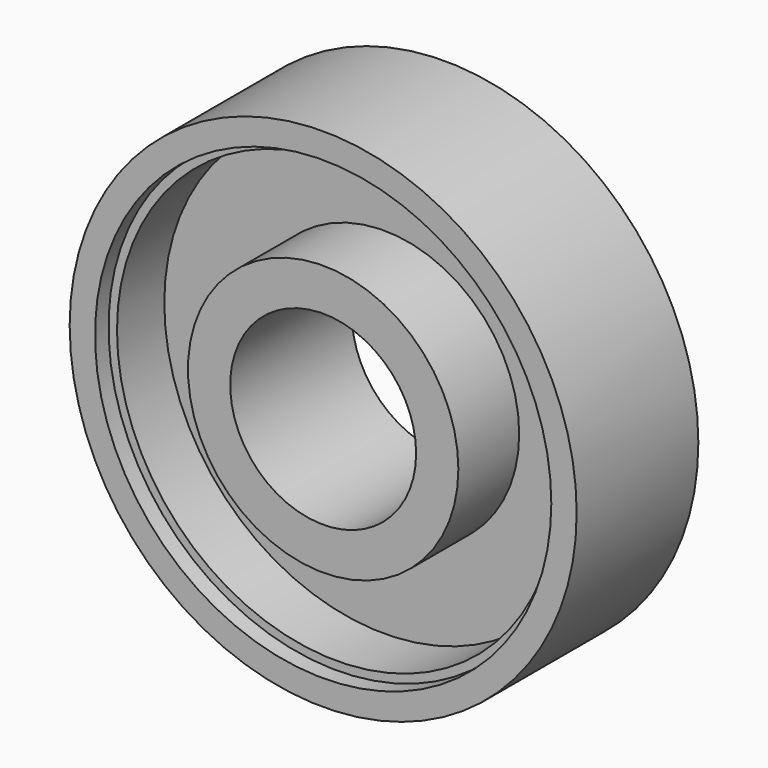
from build123d import *

# Parameters (mm, degrees)
F0_R     = 8
F0_R_2   = 5.5
F1_DEPTH = 9
F0_R_3   = 15
F0_R_4   = 13.5
F2_DEPTH = 9
F0_R_5   = 13
F3_DEPTH = 8
F4_DEPTH = 4.5


with BuildPart() as f1:
    # F0 (on Front) → F1 (new body)
    with BuildSketch(Plane.XZ):
        with Locations((-33.974461, -3.543496)):
            Circle(F0_R)
        with Locations((-33.974461, -3.543496)):
            Circle(F0_R_2, mode=Mode.SUBTRACT)
    extrude(amount=F1_DEPTH)


with BuildPart() as f2:
    # F0 (on Front) → F2 (new body)
    with BuildSketch(Plane.XZ):
        with Locations((-33.974461, -3.543496)):
            Circle(F0_R_3)
        with Locations((-33.974461, -3.543496)):
            Circle(F0_R_4, mode=Mode.SUBTRACT)
    extrude(amount=F2_DEPTH)


with BuildPart() as f3:
    # F0 (on Front) → F3 (new body)
    with BuildSketch(Plane.XZ):
        with Locations((-33.974461, -3.543496)):
            Circle(F0_R_4)
        with Locations((-33.974461, -3.543496)):
            Circle(F0_R_5, mode=Mode.SUBTRACT)
    extrude(amount=F3_DEPTH)


with BuildPart() as f4:
    # F0 (on Front) → F4 (new body)
    with BuildSketch(Plane.XZ):
        with Locations((-33.974461, -3.543496)):
            Circle(F0_R_5)
        with Locations((-33.974461, -3.543496)):
            Circle(F0_R, mode=Mode.SUBTRACT)
    extrude(amount=F4_DEPTH)


solid = Compound([f1.part, f2.part, f3.part, f4.part])
